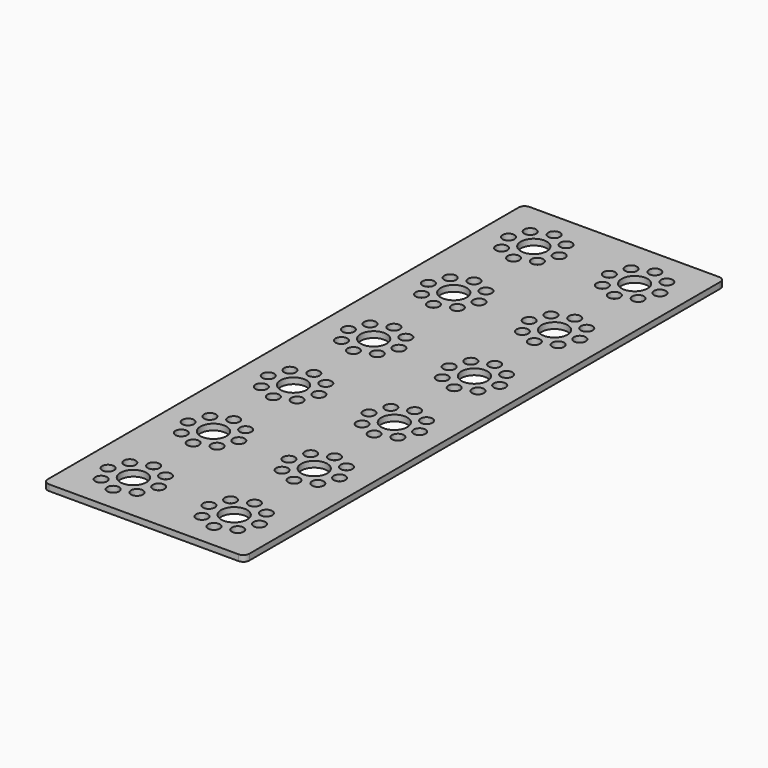
from build123d import *

# Parameters (mm, degrees)
F0_W     = 31.9659
F0_H     = 31.75
F0_R     = 1.8669
F0_R_2   = 4.1275
F1_DEPTH = 1.905


with BuildPart() as f1:
    # F0 (on Top) → F1 (new body)
    with BuildSketch(Plane.XY):
        with Locations((-15.98295, 47.625)):
            Rectangle(F0_W, F0_H)
        with Locations((-21.6584718685, 41.9494781315)):
            Circle(F0_R, mode=Mode.SUBTRACT)
        with Locations((-15.98295, 39.5986)):
            Circle(F0_R, mode=Mode.SUBTRACT)
        with Locations((-10.3074281315, 41.9494781315)):
            Circle(F0_R, mode=Mode.SUBTRACT)
        with Locations((-24.00935, 47.625)):
            Circle(F0_R, mode=Mode.SUBTRACT)
        with Locations((-21.6584718685, 53.3005218685)):
            Circle(F0_R, mode=Mode.SUBTRACT)
        with Locations((-15.98295, 47.625)):
            Circle(F0_R_2, mode=Mode.SUBTRACT)
        with Locations((-15.98295, 55.6514)):
            Circle(F0_R, mode=Mode.SUBTRACT)
        with Locations((-10.3074281315, 53.3005218685)):
            Circle(F0_R, mode=Mode.SUBTRACT)
        with Locations((-7.95655, 47.625)):
            Circle(F0_R, mode=Mode.SUBTRACT)
        with BuildLine():
            Line((-31.9659, 93.345), (-31.9659, 63.5))
            Line((-31.9659, 63.5), (0, 63.5))
            Line((0, 63.5), (0, 95.25))
            Line((0, 95.25), (-30.0609, 95.25))
            ThreePointArc((-30.0609, 95.25), (-31.4079384182, 94.6920384182), (-31.9659, 93.345))
        make_face()
        with Locations((-24.00935, 79.375)):
            Circle(F0_R, mode=Mode.SUBTRACT)
        with Locations((-21.6584718685, 73.6994781315)):
            Circle(F0_R, mode=Mode.SUBTRACT)
        with Locations((-21.6584718685, 85.0505218685)):
            Circle(F0_R, mode=Mode.SUBTRACT)
        with Locations((-15.98295, 71.3486)):
            Circle(F0_R, mode=Mode.SUBTRACT)
        with Locations((-15.98295, 79.375)):
            Circle(F0_R_2, mode=Mode.SUBTRACT)
        with Locations((-10.3074281315, 73.6994781315)):
            Circle(F0_R, mode=Mode.SUBTRACT)
        with Locations((-15.98295, 87.4014)):
            Circle(F0_R, mode=Mode.SUBTRACT)
        with Locations((-10.3074281315, 85.0505218685)):
            Circle(F0_R, mode=Mode.SUBTRACT)
        with Locations((-7.95655, 79.375)):
            Circle(F0_R, mode=Mode.SUBTRACT)
        with BuildLine():
            Line((0, 63.5), (31.9659, 63.5))
            Line((31.9659, 63.5), (31.9659, 93.345))
            ThreePointArc((31.9659, 93.345), (31.4079384182, 94.6920384182), (30.0609, 95.25))
            Line((30.0609, 95.25), (0, 95.25))
            Line((0, 95.25), (0, 63.5))
        make_face()
        with Locations((7.95655, 79.375)):
            Circle(F0_R, mode=Mode.SUBTRACT)
        with Locations((10.3074281315, 73.6994781315)):
            Circle(F0_R, mode=Mode.SUBTRACT)
        with Locations((10.3074281315, 85.0505218685)):
            Circle(F0_R, mode=Mode.SUBTRACT)
        with Locations((15.98295, 71.3486)):
            Circle(F0_R, mode=Mode.SUBTRACT)
        with Locations((15.98295, 79.375)):
            Circle(F0_R_2, mode=Mode.SUBTRACT)
        with Locations((21.6584718685, 73.6994781315)):
            Circle(F0_R, mode=Mode.SUBTRACT)
        with Locations((15.98295, 87.4014)):
            Circle(F0_R, mode=Mode.SUBTRACT)
        with Locations((21.6584718685, 85.0505218685)):
            Circle(F0_R, mode=Mode.SUBTRACT)
        with Locations((24.00935, 79.375)):
            Circle(F0_R, mode=Mode.SUBTRACT)
        with Locations((15.98295, 47.625)):
            Rectangle(F0_W, F0_H)
        with Locations((10.3074281315, 41.9494781315)):
            Circle(F0_R, mode=Mode.SUBTRACT)
        with Locations((15.98295, 39.5986)):
            Circle(F0_R, mode=Mode.SUBTRACT)
        with Locations((21.6584718685, 41.9494781315)):
            Circle(F0_R, mode=Mode.SUBTRACT)
        with Locations((7.95655, 47.625)):
            Circle(F0_R, mode=Mode.SUBTRACT)
        with Locations((10.3074281315, 53.3005218685)):
            Circle(F0_R, mode=Mode.SUBTRACT)
        with Locations((15.98295, 47.625)):
            Circle(F0_R_2, mode=Mode.SUBTRACT)
        with Locations((15.98295, 55.6514)):
            Circle(F0_R, mode=Mode.SUBTRACT)
        with Locations((21.6584718685, 53.3005218685)):
            Circle(F0_R, mode=Mode.SUBTRACT)
        with Locations((24.00935, 47.625)):
            Circle(F0_R, mode=Mode.SUBTRACT)
        with Locations((15.98295, 15.875)):
            Rectangle(F0_W, F0_H)
        with Locations((7.95655, 15.875)):
            Circle(F0_R, mode=Mode.SUBTRACT)
        with Locations((10.3074281315, 10.1994781315)):
            Circle(F0_R, mode=Mode.SUBTRACT)
        with Locations((10.3074281315, 21.5505218685)):
            Circle(F0_R, mode=Mode.SUBTRACT)
        with Locations((15.98295, 7.8486)):
            Circle(F0_R, mode=Mode.SUBTRACT)
        with Locations((21.6584718685, 10.1994781315)):
            Circle(F0_R, mode=Mode.SUBTRACT)
        with Locations((15.98295, 15.875)):
            Circle(F0_R_2, mode=Mode.SUBTRACT)
        with Locations((21.6584718685, 21.5505218685)):
            Circle(F0_R, mode=Mode.SUBTRACT)
        with Locations((24.00935, 15.875)):
            Circle(F0_R, mode=Mode.SUBTRACT)
        with Locations((15.98295, 23.9014)):
            Circle(F0_R, mode=Mode.SUBTRACT)
        with Locations((-15.98295, 15.875)):
            Rectangle(F0_W, F0_H)
        with Locations((-24.00935, 15.875)):
            Circle(F0_R, mode=Mode.SUBTRACT)
        with Locations((-21.6584718685, 10.1994781315)):
            Circle(F0_R, mode=Mode.SUBTRACT)
        with Locations((-21.6584718685, 21.5505218685)):
            Circle(F0_R, mode=Mode.SUBTRACT)
        with Locations((-15.98295, 7.8486)):
            Circle(F0_R, mode=Mode.SUBTRACT)
        with Locations((-10.3074281315, 10.1994781315)):
            Circle(F0_R, mode=Mode.SUBTRACT)
        with Locations((-15.98295, 15.875)):
            Circle(F0_R_2, mode=Mode.SUBTRACT)
        with Locations((-10.3074281315, 21.5505218685)):
            Circle(F0_R, mode=Mode.SUBTRACT)
        with Locations((-7.95655, 15.875)):
            Circle(F0_R, mode=Mode.SUBTRACT)
        with Locations((-15.98295, 23.9014)):
            Circle(F0_R, mode=Mode.SUBTRACT)
    extrude(amount=F1_DEPTH)

    # F2: F1 across plane


with BuildPart() as f1_1:
    add(f1.part)
    add(f1.part.mirror(Plane.XZ))


solid = f1_1.part
